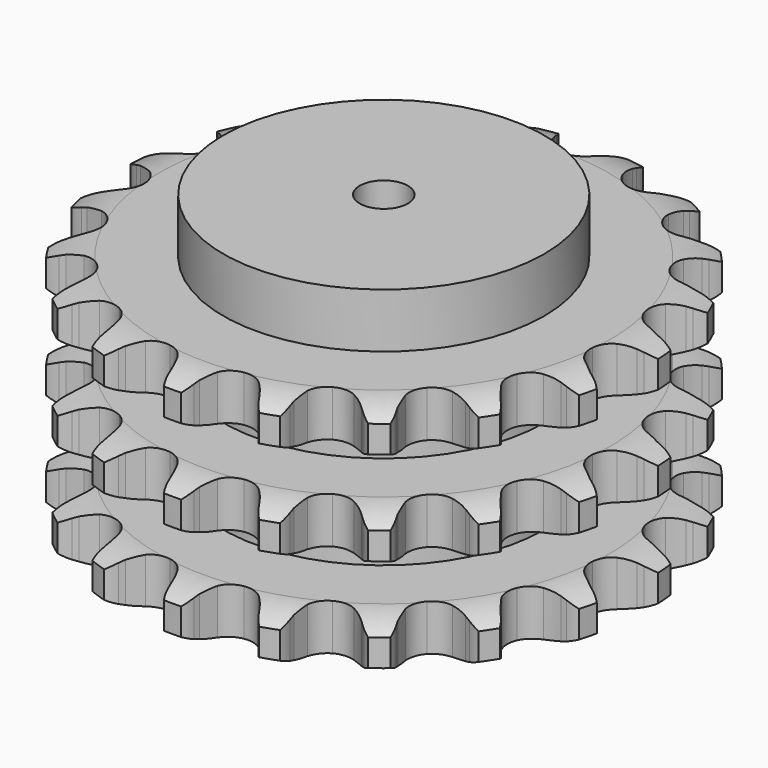
from build123d import *

# Parameters (mm, degrees)
PAD_DEPTH         = 146
SKETCH001_R       = 100
PAD001_DEPTH      = 180
SKETCH002_R       = 15
POCKET_DEPTH      = 0.001
POCKET_DEPTH_BACK = 180.001


with BuildPart() as part:
    # Sprocket → Pad (new body)
    with BuildSketch(Plane.XY):
        with BuildLine():
            ThreePointArc((-28.118506, 168.504967), (-22.167734, 163.609901), (-18.055255, 157.093701))
            Line((-18.055255, 157.093701), (-16.654706, 153.810994))
            ThreePointArc((-16.654706, 153.810994), (-14.395398, 149.351566), (-11.571453, 145.226485))
            ThreePointArc((-11.571453, 145.226485), (-6.432893, 141.082917), (0, 139.602434))
            ThreePointArc((0, 139.602434), (6.432893, 141.082917), (11.571453, 145.226485))
            ThreePointArc((11.571453, 145.226485), (14.395398, 149.351566), (16.654706, 153.810994))
            Line((16.654706, 153.810994), (18.055255, 157.093701))
            ThreePointArc((18.055255, 157.093701), (22.167734, 163.609901), (28.118506, 168.504967))
            ThreePointArc((28.118506, 168.504967), (32.157423, 161.942917), (33.93127, 154.444462))
            Line((33.93127, 154.444462), (34.19004, 150.884864))
            ThreePointArc((34.19004, 150.884864), (34.878958, 145.933465), (36.210483, 141.114958))
            ThreePointArc((36.210483, 141.114958), (39.725207, 135.527413), (45.328836, 132.038389))
            ThreePointArc((45.328836, 132.038389), (51.89389, 131.349898), (58.099442, 133.600469))
            Line((58.099442, 133.600469), (65.694656, 140.069316))
            ThreePointArc((65.694656, 140.069316), (66.858874, 141.422376), (68.085213, 142.719399))
            ThreePointArc((68.085213, 142.719399), (74.090673, 147.547214), (81.308441, 150.244839))
            ThreePointArc((81.308441, 150.244839), (82.997825, 142.726905), (82.240815, 135.05877))
            Line((82.240815, 135.05877), (81.329765, 131.608018))
            ThreePointArc((81.329765, 131.608018), (80.373639, 126.701208), (80.068451, 121.711436))
            ThreePointArc((80.068451, 121.711436), (81.578464, 115.28541), (85.74559, 110.165936))
            ThreePointArc((85.74559, 110.165936), (91.731378, 107.38308), (98.331456, 107.496769))
            Line((98.331456, 107.496769), (107.615571, 111.148954))
            ThreePointArc((107.615571, 111.148954), (109.156046, 112.050681), (110.737081, 112.879236))
            ThreePointArc((110.737081, 112.879236), (117.984738, 115.495497), (125.687345, 115.703351))
            ThreePointArc((125.687345, 115.703351), (124.844124, 108.044218), (121.638292, 101.037365))
            Line((121.638292, 101.037365), (119.656147, 98.069401))
            ThreePointArc((119.656147, 98.069401), (117.158588, 93.738909), (115.24976, 89.118591))
            ThreePointArc((115.24976, 89.118591), (114.59143, 82.550444), (116.870478, 76.355294))
            ThreePointArc((116.870478, 76.355294), (121.628348, 71.779639), (127.90773, 69.744126))
            Line((127.90773, 69.744126), (137.874668, 70.183878))
            ThreePointArc((137.874668, 70.183878), (139.624467, 70.536556), (141.388869, 70.806856))
            ThreePointArc((141.388869, 70.806856), (149.093326, 70.92805), (156.446074, 68.623611))
            ThreePointArc((156.446074, 68.623611), (153.161625, 61.653263), (147.854372, 56.066993))
            Line((147.854372, 56.066993), (145.01593, 53.903443))
            ThreePointArc((145.01593, 53.903443), (141.247587, 50.618545), (137.941969, 46.868364))
            ThreePointArc((137.941969, 46.868364), (135.186635, 40.869857), (135.330637, 34.270372))
            ThreePointArc((135.330637, 34.270372), (138.344999, 28.39776), (143.623217, 24.433625))
            Line((143.623217, 24.433625), (153.192907, 21.613291))
            ThreePointArc((153.192907, 21.613291), (154.96241, 21.3787), (156.718978, 21.061454))
            ThreePointArc((156.718978, 21.061454), (164.045339, 18.674449), (170.251444, 14.107437))
            ThreePointArc((170.251444, 14.107437), (164.881687, 8.581221), (158.048137, 5.020892))
            Line((158.048137, 5.020892), (154.660986, 3.89621))
            ThreePointArc((154.660986, 3.89621), (150.030217, 2.012876), (145.686026, -0.460778))
            ThreePointArc((145.686026, -0.460778), (141.132272, -5.239613), (139.125621, -11.528278))
            ThreePointArc((139.125621, -11.528278), (140.069823, -18.061457), (143.7749, -23.524639))
            Line((143.7749, -23.524639), (151.910317, -29.299433))
            ThreePointArc((151.910317, -29.299433), (153.507772, -30.095869), (155.066155, -30.966282))
            ThreePointArc((155.066155, -30.966282), (161.220494, -35.602818), (165.607429, -41.937497))
            ThreePointArc((165.607429, -41.937497), (158.734261, -45.420729), (151.114934, -46.5693))
            Line((151.114934, -46.5693), (147.546124, -46.533237))
            ThreePointArc((147.546124, -46.533237), (142.554746, -46.810919), (137.642741, -47.739987))
            ThreePointArc((137.642741, -47.739987), (131.784036, -50.78129), (127.844185, -56.077659))
            ThreePointArc((127.844185, -56.077659), (126.615908, -62.563435), (128.346342, -68.933642))
            Line((128.346342, -68.933642), (134.165886, -77.037108))
            ThreePointArc((134.165886, -77.037108), (135.418185, -78.309084), (136.609507, -79.638342))
            ThreePointArc((136.609507, -79.638342), (140.924906, -86.021968), (143.017279, -93.437852))
            ThreePointArc((143.017279, -93.437852), (135.385514, -94.500639), (127.806083, -93.112986))
            Line((127.806083, -93.112986), (124.442351, -91.920086))
            ThreePointArc((124.442351, -91.920086), (119.631256, -90.562025), (114.683729, -89.845827))
            ThreePointArc((114.683729, -89.845827), (108.154956, -90.820026), (102.708849, -94.550156))
            ThreePointArc((102.708849, -94.550156), (99.441195, -100.285693), (99.009466, -106.872617))
            Line((99.009466, -106.872617), (101.882501, -116.426617))
            ThreePointArc((101.882501, -116.426617), (102.653936, -118.036295), (103.3491, -119.680351))
            ThreePointArc((103.3491, -119.680351), (105.357919, -127.119303), (104.928987, -134.812766))
            ThreePointArc((104.928987, -134.812766), (97.365646, -133.339938), (90.64746, -129.566435))
            Line((90.64746, -129.566435), (87.853318, -127.345968))
            ThreePointArc((87.853318, -127.345968), (83.743864, -124.49933), (79.296956, -122.215479))
            ThreePointArc((79.296956, -122.215479), (72.805608, -121.017004), (66.443415, -122.776676))
            ThreePointArc((66.443415, -122.776676), (61.490486, -127.140441), (58.943378, -133.230284))
            Line((58.943378, -133.230284), (58.558565, -143.199495))
            ThreePointArc((58.558565, -143.199495), (58.765541, -144.972441), (58.889214, -146.753138))
            ThreePointArc((58.889214, -146.753138), (58.373766, -154.441289), (55.470012, -161.578625))
            ThreePointArc((55.470012, -161.578625), (48.794699, -157.729786), (43.665778, -151.97935))
            Line((43.665778, -151.97935), (41.744015, -148.971938))
            ThreePointArc((41.744015, -148.971938), (38.781524, -144.945201), (35.317127, -141.341186))
            ThreePointArc((35.317127, -141.341186), (29.566642, -138.099911), (22.977805, -137.698439))
            ThreePointArc((22.977805, -137.698439), (16.876328, -140.217549), (12.48986, -145.150384))
            Line((12.48986, -145.150384), (8.8889, -154.454487))
            ThreePointArc((8.8889, -154.454487), (8.508987, -156.198574), (8.047768, -157.922945))
            ThreePointArc((8.047768, -157.922945), (5.06391, -165.027164), (0, -170.834932))
            ThreePointArc((0, -170.834932), (-5.06391, -165.027164), (-8.047768, -157.922945))
            Line((-8.047768, -157.922945), (-8.8889, -154.454487))
            ThreePointArc((-8.8889, -154.454487), (-10.383396, -149.68401), (-12.48986, -145.150384))
            ThreePointArc((-12.48986, -145.150384), (-16.876328, -140.217549), (-22.977805, -137.698439))
            ThreePointArc((-22.977805, -137.698439), (-29.566642, -138.099911), (-35.317127, -141.341186))
            Line((-35.317127, -141.341186), (-41.744015, -148.971938))
            ThreePointArc((-41.744015, -148.971938), (-42.669648, -150.498168), (-43.665778, -151.97935))
            ThreePointArc((-43.665778, -151.97935), (-48.794699, -157.729786), (-55.470012, -161.578625))
            ThreePointArc((-55.470012, -161.578625), (-58.373766, -154.441289), (-58.889214, -146.753138))
            Line((-58.889214, -146.753138), (-58.558565, -143.199495))
            ThreePointArc((-58.558565, -143.199495), (-58.423113, -138.202234), (-58.943378, -133.230284))
            ThreePointArc((-58.943378, -133.230284), (-61.490486, -127.140441), (-66.443415, -122.776676))
            ThreePointArc((-66.443415, -122.776676), (-72.805608, -121.017004), (-79.296956, -122.215479))
            Line((-79.296956, -122.215479), (-87.853318, -127.345968))
            ThreePointArc((-87.853318, -127.345968), (-89.224364, -128.48895), (-90.64746, -129.566435))
            ThreePointArc((-90.64746, -129.566435), (-97.365646, -133.339938), (-104.928987, -134.812766))
            ThreePointArc((-104.928987, -134.812766), (-105.357919, -127.119303), (-103.3491, -119.680351))
            Line((-103.3491, -119.680351), (-101.882501, -116.426617))
            ThreePointArc((-101.882501, -116.426617), (-100.13178, -111.744102), (-99.009466, -106.872617))
            ThreePointArc((-99.009466, -106.872617), (-99.441195, -100.285693), (-102.708849, -94.550156))
            ThreePointArc((-102.708849, -94.550156), (-108.154956, -90.820026), (-114.683729, -89.845827))
            Line((-114.683729, -89.845827), (-124.442351, -91.920086))
            ThreePointArc((-124.442351, -91.920086), (-126.110236, -92.555961), (-127.806083, -93.112986))
            ThreePointArc((-127.806083, -93.112986), (-135.385514, -94.500639), (-143.017279, -93.437852))
            ThreePointArc((-143.017279, -93.437852), (-140.924906, -86.021968), (-136.609507, -79.638342))
            Line((-136.609507, -79.638342), (-134.165886, -77.037108))
            ThreePointArc((-134.165886, -77.037108), (-130.989615, -73.176763), (-128.346342, -68.933642))
            ThreePointArc((-128.346342, -68.933642), (-126.615908, -62.563435), (-127.844185, -56.077659))
            ThreePointArc((-127.844185, -56.077659), (-131.784036, -50.78129), (-137.642741, -47.739987))
            Line((-137.642741, -47.739987), (-147.546124, -46.533237))
            ThreePointArc((-147.546124, -46.533237), (-149.330107, -46.593097), (-151.114934, -46.5693))
            ThreePointArc((-151.114934, -46.5693), (-158.734261, -45.420729), (-165.607429, -41.937497))
            ThreePointArc((-165.607429, -41.937497), (-161.220494, -35.602818), (-155.066155, -30.966282))
            Line((-155.066155, -30.966282), (-151.910317, -29.299433))
            ThreePointArc((-151.910317, -29.299433), (-147.652692, -26.679585), (-143.7749, -23.524639))
            ThreePointArc((-143.7749, -23.524639), (-140.069823, -18.061457), (-139.125621, -11.528278))
            ThreePointArc((-139.125621, -11.528278), (-141.132272, -5.239613), (-145.686026, -0.460778))
            Line((-145.686026, -0.460778), (-154.660986, 3.89621))
            ThreePointArc((-154.660986, 3.89621), (-156.367743, 4.418852), (-158.048137, 5.020892))
            ThreePointArc((-158.048137, 5.020892), (-164.881687, 8.581221), (-170.251444, 14.107437))
            ThreePointArc((-170.251444, 14.107437), (-164.045339, 18.674449), (-156.718978, 21.061454))
            Line((-156.718978, 21.061454), (-153.192907, 21.613291))
            ThreePointArc((-153.192907, 21.613291), (-148.315309, 22.708739), (-143.623217, 24.433625))
            ThreePointArc((-143.623217, 24.433625), (-138.344999, 28.39776), (-135.330637, 34.270372))
            ThreePointArc((-135.330637, 34.270372), (-135.186635, 40.869857), (-137.941969, 46.868364))
            Line((-137.941969, 46.868364), (-145.01593, 53.903443))
            ThreePointArc((-145.01593, 53.903443), (-146.460509, 54.95195), (-147.854372, 56.066993))
            ThreePointArc((-147.854372, 56.066993), (-153.161625, 61.653263), (-156.446074, 68.623611))
            ThreePointArc((-156.446074, 68.623611), (-149.093326, 70.92805), (-141.388869, 70.806856))
            Line((-141.388869, 70.806856), (-137.874668, 70.183878))
            ThreePointArc((-137.874668, 70.183878), (-132.905661, 69.636219), (-127.90773, 69.744126))
            ThreePointArc((-127.90773, 69.744126), (-121.628348, 71.779639), (-116.870478, 76.355294))
            ThreePointArc((-116.870478, 76.355294), (-114.59143, 82.550444), (-115.24976, 89.118591))
            Line((-115.24976, 89.118591), (-119.656147, 98.069401))
            ThreePointArc((-119.656147, 98.069401), (-120.682006, 99.530151), (-121.638292, 101.037365))
            ThreePointArc((-121.638292, 101.037365), (-124.844124, 108.044218), (-125.687345, 115.703351))
            ThreePointArc((-125.687345, 115.703351), (-117.984738, 115.495497), (-110.737081, 112.879236))
            Line((-110.737081, 112.879236), (-107.615571, 111.148954))
            ThreePointArc((-107.615571, 111.148954), (-103.093623, 109.017534), (-98.331456, 107.496769))
            ThreePointArc((-98.331456, 107.496769), (-91.731378, 107.38308), (-85.74559, 110.165936))
            ThreePointArc((-85.74559, 110.165936), (-81.578464, 115.28541), (-80.068451, 121.711436))
            Line((-80.068451, 121.711436), (-81.329765, 131.608018))
            ThreePointArc((-81.329765, 131.608018), (-81.825735, 133.322716), (-82.240815, 135.05877))
            ThreePointArc((-82.240815, 135.05877), (-82.997825, 142.726905), (-81.308441, 150.244839))
            ThreePointArc((-81.308441, 150.244839), (-74.090673, 147.547214), (-68.085213, 142.719399))
            Line((-68.085213, 142.719399), (-65.694656, 140.069316))
            ThreePointArc((-65.694656, 140.069316), (-62.10979, 136.585108), (-58.099442, 133.600469))
            ThreePointArc((-58.099442, 133.600469), (-51.89389, 131.349898), (-45.328836, 132.038389))
            ThreePointArc((-45.328836, 132.038389), (-39.725207, 135.527413), (-36.210483, 141.114958))
            Line((-36.210483, 141.114958), (-34.19004, 150.884864))
            ThreePointArc((-34.19004, 150.884864), (-34.102376, 152.667696), (-33.93127, 154.444462))
            ThreePointArc((-33.93127, 154.444462), (-32.157423, 161.942917), (-28.118506, 168.504967))
        make_face()
    extrude(amount=PAD_DEPTH)

    # Sketch → Groove (revolve, cut)
    with BuildSketch(Plane.XZ):
        with BuildLine():
            ThreePointArc((140.55, 0), (152.919317, 1.522732), (164.55, 6))
            Line((164.55, 6), (164.55, 22.8))
            ThreePointArc((164.55, 22.8), (152.919317, 27.277268), (140.55, 28.8))
            Line((100, 28.8), (140.55, 28.8))
            Line((100, 28.8), (100, 58.6))
            Line((100, 58.6), (140.55, 58.6))
            ThreePointArc((140.55, 58.6), (152.919317, 60.122732), (164.55, 64.6))
            Line((164.55, 81.4), (164.55, 64.6))
            ThreePointArc((164.55, 81.4), (152.919317, 85.877268), (140.55, 87.4))
            Line((100, 87.4), (140.55, 87.4))
            Line((100, 117.2), (100, 87.4))
            Line((140.55, 117.2), (100, 117.2))
            ThreePointArc((140.55, 117.2), (152.919317, 118.722732), (164.55, 123.2))
            Line((164.55, 123.2), (164.55, 140))
            ThreePointArc((164.55, 140), (152.919317, 144.477268), (140.55, 146))
            Line((140.55, 146), (174.55, 146))
            Line((174.55, 146), (174.55, 0))
            Line((140.55, 0), (174.55, 0))
        make_face()
    revolve(axis=Axis((0, 0, 0), (0, 0, 1)), mode=Mode.SUBTRACT)

    # Sketch001 → Pad001 (join)
    with BuildSketch(Plane.XY):
        Circle(SKETCH001_R)
    extrude(amount=PAD001_DEPTH)

    # Sketch002 → Pocket (cut, two sides)
    with BuildSketch(Plane.XY) as pocket_sk:
        Circle(SKETCH002_R)
    extrude(amount=-POCKET_DEPTH, mode=Mode.SUBTRACT)
    extrude(pocket_sk.sketch, amount=POCKET_DEPTH_BACK, mode=Mode.SUBTRACT)


solid = part.part
